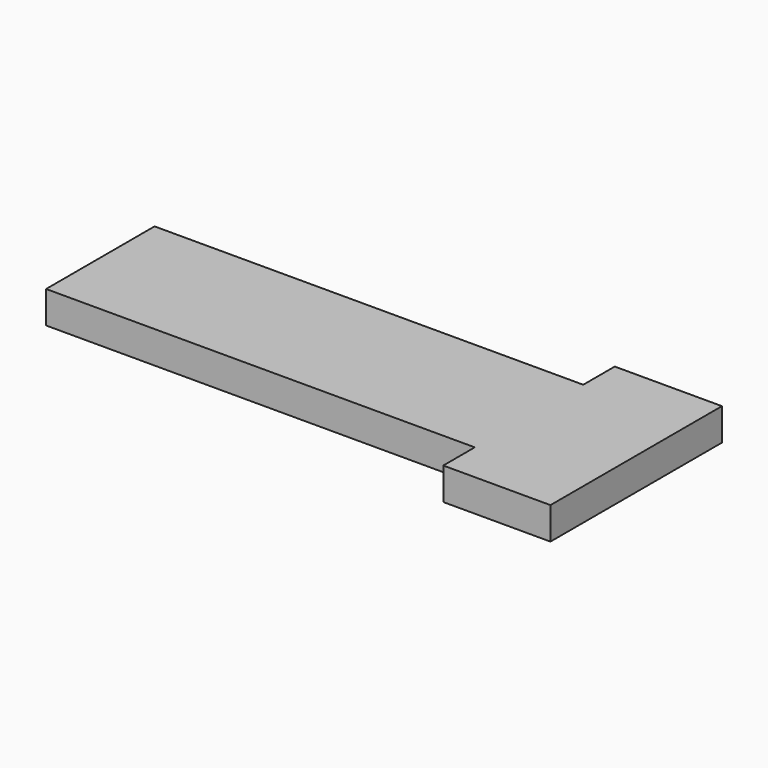
from build123d import *

# Parameters (mm, degrees)
F0_W     = 5
F0_H     = 12.65
F0_W_2   = 40
F1_DEPTH = 1.5


with BuildPart() as f1:
    # F0 (on Top) → F1 (new body, symmetric)
    with BuildSketch(Plane.XY):
        with Locations((20, 0)):
            Rectangle(F0_W, F0_H)
        with Locations((-2.5, 0)):
            Rectangle(F0_W_2, F0_H)
        Polygon((22.5, 6.325), (22.5, -6.325), (17.5, -6.325), (17.5, -10), (27.5, -10), (27.5, 10), (17.5, 10), (17.5, 6.325), align=None)
    extrude(amount=F1_DEPTH, both=True)


solid = f1.part
